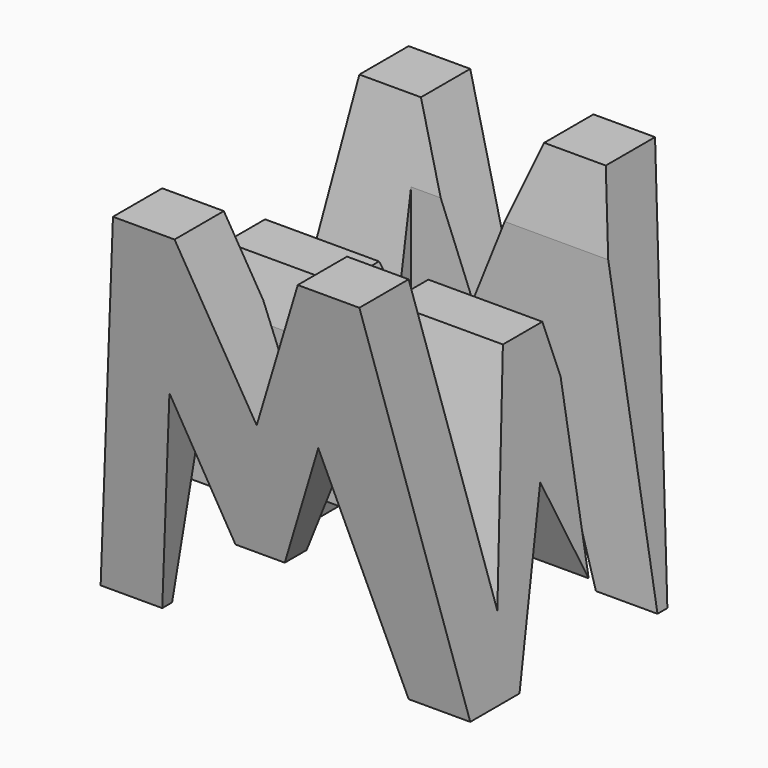
from build123d import *

# Parameters (mm, degrees)
F0_W      = 38.1
F0_H      = 38.1
F1_DEPTH  = 38.1
F6_DEPTH  = 38.1
F8_DEPTH  = 38.1
F9_W      = 25.4
F9_H      = 7.62
F10_DEPTH = 38.1


with BuildPart() as f1:
    # F0 (on Front) → F1 (new body)
    with BuildSketch(Plane.XZ):
        with Locations((19.05, 19.05)):
            Rectangle(F0_W, F0_H)
    extrude(amount=F1_DEPTH)

    # F5 (on offset) → F6 (cut)
    with BuildSketch(Plane.YZ.offset(38.1)):
        Polygon((-11.43, 7.62), (-6.35, 38.1), (-31.75, 38.1), (-26.67, 7.62), (-21.59, 28.575), (-16.51, 28.575), align=None)
        Polygon((-31.75, 0), (-38.1, 38.1), (-38.1, 0), align=None)
        Polygon((-25.4, 0), (-12.7, 0), (-19.427248, 15.875), align=None)
        Polygon((-6.35, 0), (0, 0), (0, 38.1), align=None)
    extrude(amount=-F6_DEPTH, mode=Mode.SUBTRACT)

    # F7 (on offset) → F8 (cut)
    with BuildSketch(Plane.XZ.offset(38.1)):
        Polygon((10.054167, 22.225), (6.35, 0), (31.75, 0), (25.4, 22.225), (20.214167, 9.260417), (15.134167, 9.260417), align=None)
        Polygon((0, 38.1), (0, 0), (6.35, 38.1), align=None)
        Polygon((25.4, 38.1), (12.7, 38.1), (19.05, 22.225), align=None)
        Polygon((31.75, 38.1), (38.1, 0), (38.1, 38.1), align=None)
    extrude(amount=-F8_DEPTH, mode=Mode.SUBTRACT)

    # F9 (on offset) → F10 (cut)
    with BuildSketch(Plane.XY.offset(38.1)):
        with Locations((25.4, -11.43)):
            Rectangle(F9_W, F9_H)
        with Locations((12.7, -26.67)):
            Rectangle(F9_W, F9_H)
    extrude(amount=-F10_DEPTH, mode=Mode.SUBTRACT)


solid = f1.part
